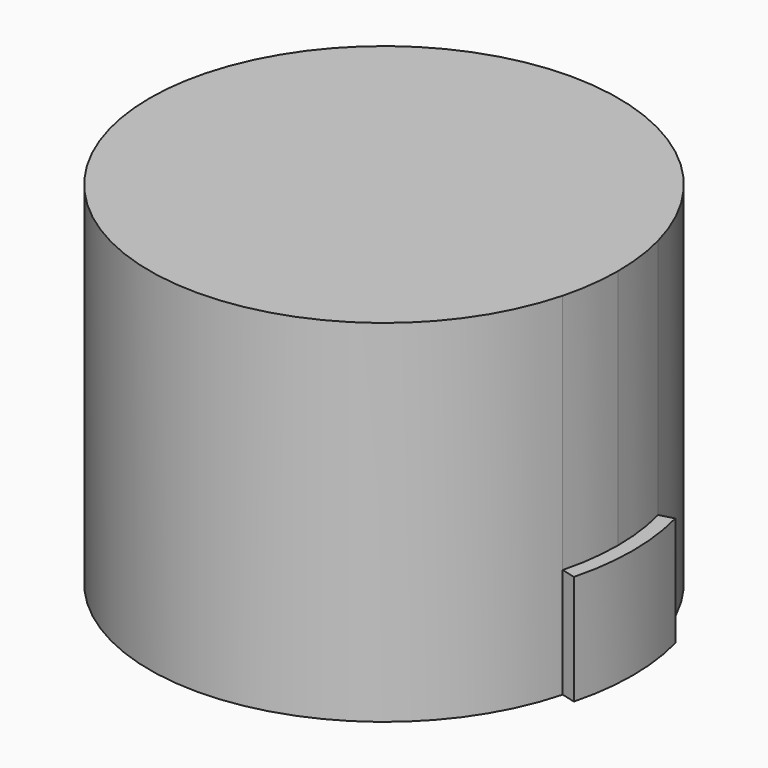
from build123d import *

# Parameters (mm, degrees)
F0_R     = 38.1
F1_DEPTH = 76.2
F2_DEPTH = 23.8125
F3_DEPTH = 63.5


with BuildPart() as f1:
    # F0 (on Top) → F1 (new body)
    with BuildSketch(Plane.XY):
        with BuildLine():
            ThreePointArc((49.1259336968, -12.9337789688), (50.3797450956, -6.5208346169), (50.8, 0))
            ThreePointArc((50.8, 0), (50.3797450956, 6.5208346169), (49.1259336968, 12.9337789688))
            ThreePointArc((49.1259336968, 12.9337789688), (0, 50.8), (-49.1259336968, 12.9337789688))
            ThreePointArc((-49.1259336968, 12.9337789688), (-50.8, 0), (-49.1259336968, -12.9337789688))
            ThreePointArc((-49.1259336968, -12.9337789688), (0, -50.8), (49.1259336968, -12.9337789688))
        make_face()
        Circle(F0_R, mode=Mode.SUBTRACT)
        Circle(F0_R)
    extrude(amount=F1_DEPTH)

    # F0 (on Top) → F2 (join)
    with BuildSketch(Plane.XY):
        with BuildLine():
            ThreePointArc((-49.1259336968, -12.9337789688), (-50.8, 0), (-49.1259336968, 12.9337789688))
            Line((-49.1259336968, 12.9337789688), (-52.1963045529, 13.7421401544))
            ThreePointArc((-52.1963045529, 13.7421401544), (-53.975, 0), (-52.1963045529, -13.7421401544))
            Line((-52.1963045529, -13.7421401544), (-49.1259336968, -12.9337789688))
        make_face()
        with BuildLine():
            ThreePointArc((49.1259336968, 12.9337789688), (50.3797450956, 6.5208346169), (50.8, 0))
            ThreePointArc((50.8, 0), (50.3797450956, -6.5208346169), (49.1259336968, -12.9337789688))
            Line((49.1259336968, -12.9337789688), (52.1963045529, -13.7421401544))
            ThreePointArc((52.1963045529, -13.7421401544), (53.975, 0), (52.1963045529, 13.7421401544))
            Line((52.1963045529, 13.7421401544), (49.1259336968, 12.9337789688))
        make_face()
    extrude(amount=F2_DEPTH)

    # F0 (on Top) → F3 (cut)
    with BuildSketch(Plane.XY):
        Circle(F0_R)
    extrude(amount=F3_DEPTH, mode=Mode.SUBTRACT)


solid = f1.part
